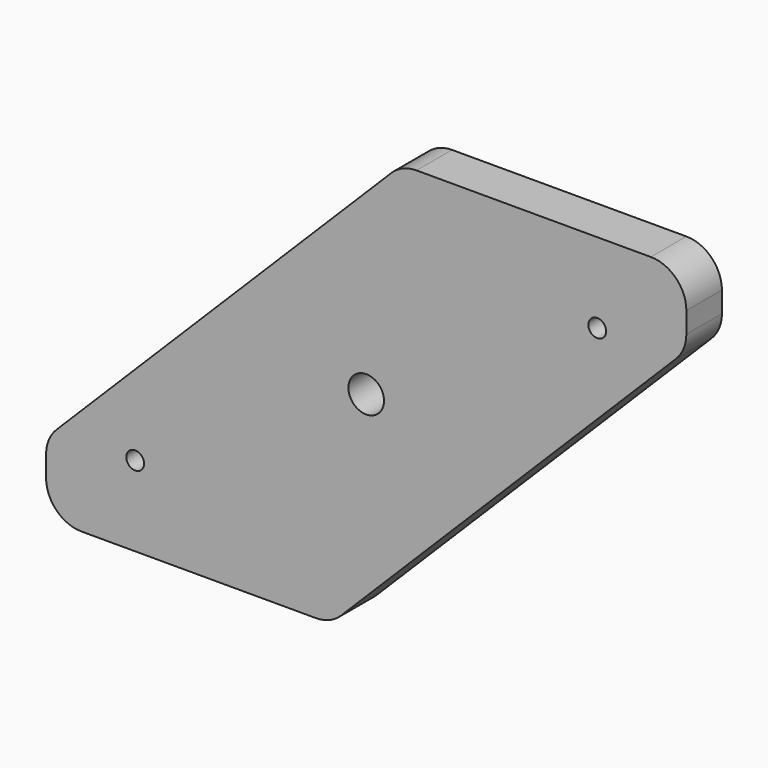
from build123d import *

# Parameters (mm, degrees)
F0_W     = 457.2
F0_H     = 304.8
F1_DEPTH = 31.75
F2_SIZE2 = 254
F2_SIZE  = 254
F3_R     = 25.4
F5_D     = 12.7
F8_D     = 25.4


with BuildPart() as f1:
    # F0 (on Front) → F1 (new body)
    with BuildSketch(Plane.XZ):
        with Locations((228.6, 152.4)):
            Rectangle(F0_W, F0_H)
    extrude(amount=F1_DEPTH)

    # F2
    f2_edges = [f1.edges().sort_by_distance(p)[0] for p in [
        (0, -15.875, 304.8),
        (457.2, -15.875, 0),
    ]]
    chamfer(f2_edges, length=F2_SIZE, length2=F2_SIZE2)

    # F3
    f3_edges = [f1.edges().sort_by_distance(p)[0] for p in [
        (0, -15.875, 50.8),
        (0, -15.875, 0),
        (203.2, -15.875, 0),
        (457.2, -15.875, 254),
        (457.2, -15.875, 304.8),
        (254, -15.875, 304.8),
    ]]
    fillet(f3_edges, radius=F3_R)

    # F5 (through all)
    with Locations(Plane.XZ.offset(31.75)):
        with Locations((63.627, 57.15), (393.573, 247.65)):
            Hole(F5_D / 2)

    # F8 (through all)
    with Locations(Plane.XZ.offset(31.75)):
        with Locations((228.6, 152.4)):
            Hole(F8_D / 2)


solid = f1.part
